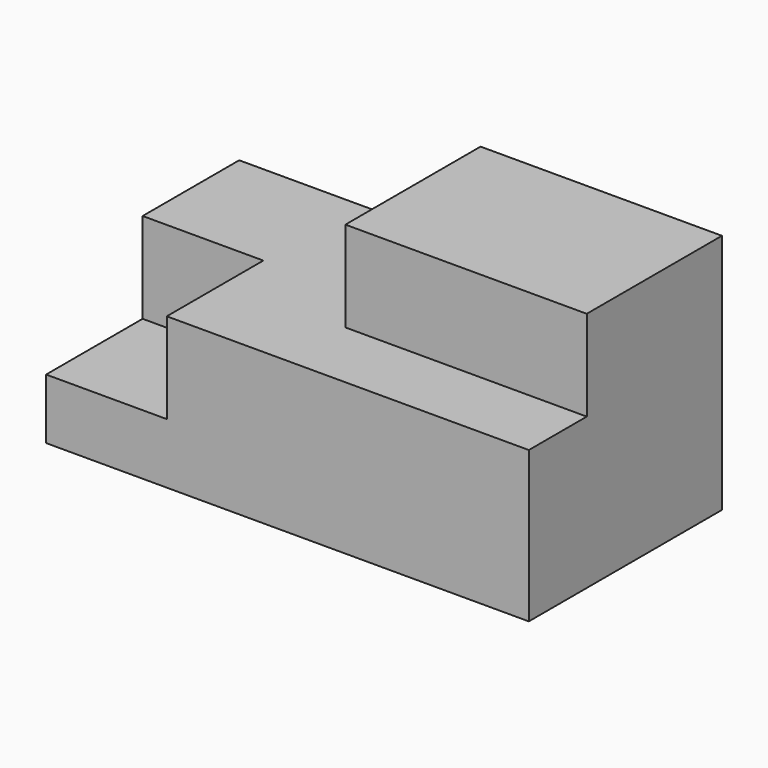
from build123d import *

# Parameters (mm, degrees)
F0_W     = 40
F0_H     = 28
F0_W_2   = 20
F0_H_2   = 20
F1_DEPTH = 25
F2_W     = 20
F2_H     = 20
F3_DEPTH = 15
F4_W     = 40
F4_H     = 28
F5_DEPTH = 15


with BuildPart() as f1:
    # F0 (on Top) → F1 (new body)
    with BuildSketch(Plane.XY):
        Polygon((-1.226237, 20.598543), (-41.226237, 20.598543), (-41.226237, 0.598543), (-21.226237, 0.598543), (-21.226237, -19.401457), (38.773763, -19.401457), (38.773763, -7.401457), (-1.226237, -7.401457), align=None)
        with Locations((18.773763, 6.598543)):
            Rectangle(F0_W, F0_H)
        with Locations((-31.226237, -9.401457)):
            Rectangle(F0_W_2, F0_H_2)
    extrude(amount=F1_DEPTH)

    # F2 (on face) → F3 (cut)
    with BuildSketch(Plane.XY.offset(25)):
        with Locations((-31.226237, -9.401457)):
            Rectangle(F2_W, F2_H)
    extrude(amount=-F3_DEPTH, mode=Mode.SUBTRACT)

    # F4 (on face) → F5 (join)
    with BuildSketch(Plane.XY.offset(25)):
        with Locations((18.773763, 6.598543)):
            Rectangle(F4_W, F4_H)
        with Locations((18.773763, 6.598543)):
            Rectangle(F4_W, F4_H)
    extrude(amount=F5_DEPTH)


solid = f1.part
